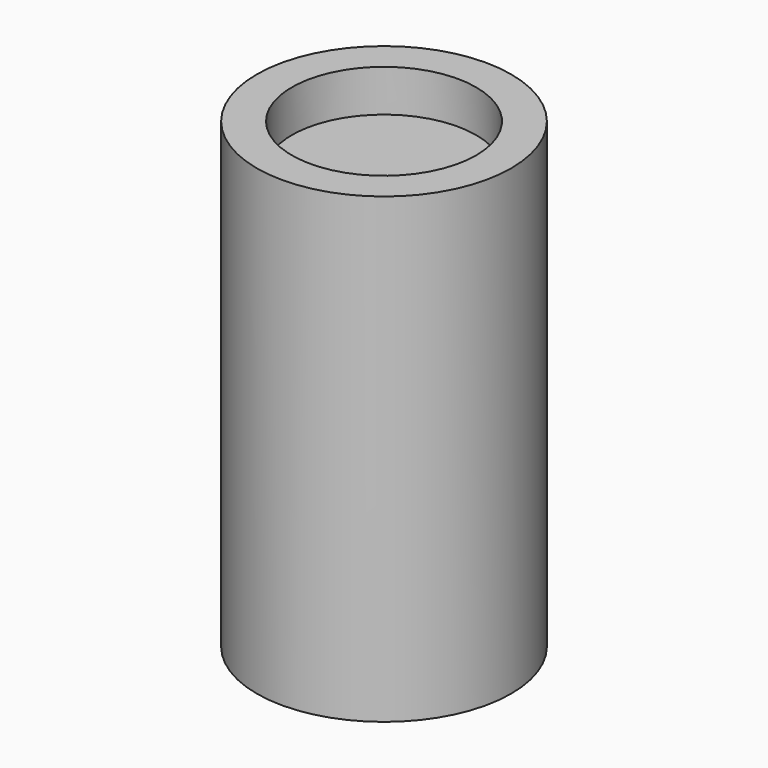
from build123d import *

# Parameters (mm, degrees)
F0_R      = 23.0505
F0_R_2    = 16.7005
F1_DEPTH  = 50.8
F2_R      = 23.0505
F3_DEPTH  = 25.4
F3_FACE_R = 23.0505
F4_DEPTH  = 7.62
F5_R      = 16.7005
F6_DEPTH  = 7.62


with BuildPart() as f1:
    # F0 (on Top) → F1 (new body)
    with BuildSketch(Plane.XY):
        Circle(F0_R)
        Circle(F0_R_2, mode=Mode.SUBTRACT)
    extrude(amount=F1_DEPTH)

    # F2 (on face) → F3 (join)
    with BuildSketch(Plane.XY.offset(50.8)):
        Circle(F2_R)
    extrude(amount=F3_DEPTH)

    # F3_face (on face) → F4 (join)
    with BuildSketch(Plane.XY.offset(76.2)):
        Circle(F3_FACE_R)
    extrude(amount=F4_DEPTH)

    # F5 (on face) → F6 (cut)
    with BuildSketch(Plane.XY.offset(83.82)):
        Circle(F5_R)
    extrude(amount=-F6_DEPTH, mode=Mode.SUBTRACT)


solid = f1.part
